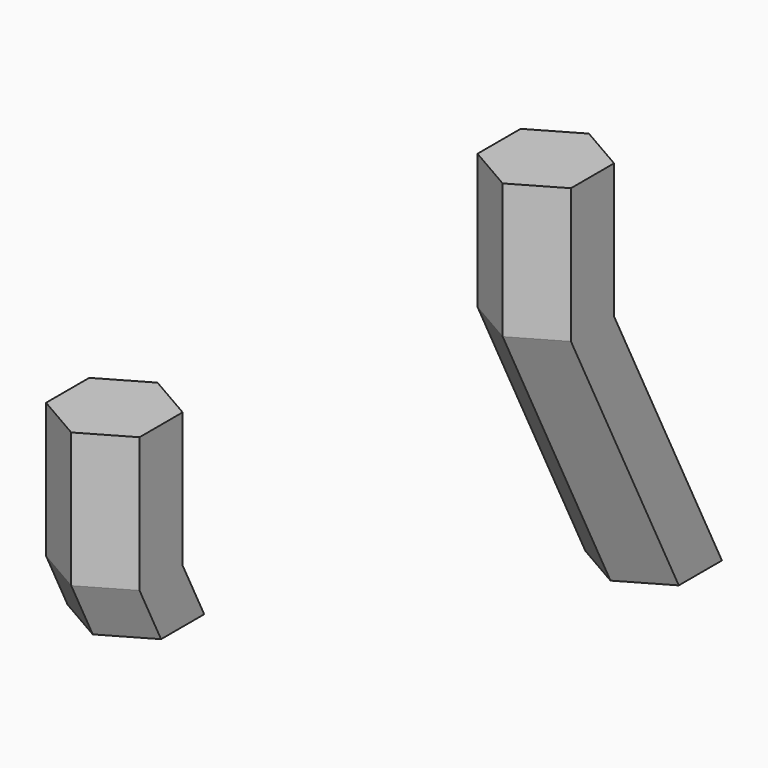
from build123d import *

# Parameters (mm, degrees)
F1_DEPTH = 6.35


with BuildPart() as f1:
    # F0 (on Top) → F1 (new body)
    with BuildSketch(Plane.XY):
        Polygon((10.5002954744, 12.7), (12.7, 12.7), (12.7, 10.16), (14.8997045256, 11.43), (14.8997045256, 13.97), (12.7, 15.24), (10.5002954744, 13.97), align=None)
        Polygon((12.7, 10.16), (12.7, 12.7), (10.5002954744, 12.7), (10.5002954744, 11.43), align=None)
    extrude(amount=-F1_DEPTH)

    # F6 (on offset) → F7 section 0
    with BuildSketch(Plane(origin=(0, 0, -19.05), x_dir=(1, 0, 0), z_dir=(0, 0, -1))):
        Polygon((14.8997045256, -17.78), (12.7, -16.51), (10.5002954744, -17.78), (10.5002954744, -20.32), (12.7, -21.59), (14.8997045256, -20.32), align=None)
    # F1_face (on face) → F7 section 1
    with BuildSketch(Plane(origin=(12.7, -12.7, -6.35), x_dir=(1, 0, 0), z_dir=(0, 0, -1))):
        Polygon((-2.1997045256, -24.13), (-2.1997045256, -26.67), (0, -27.94), (2.1997045256, -26.67), (2.1997045256, -24.13), (0, -22.86), align=None)
    loft()


with BuildPart() as f1b:
    # F0 (on Top) → F1, piece 2 (new body)
    with BuildSketch(Plane.XY):
        Polygon((12.7, -12.7), (12.7, -10.16), (10.5002954744, -11.43), (10.5002954744, -12.7), align=None)
        Polygon((14.8997045256, -11.43), (12.7, -10.16), (12.7, -12.7), (10.5002954744, -12.7), (10.5002954744, -13.97), (12.7, -15.24), (14.8997045256, -13.97), align=None)
    extrude(amount=-F1_DEPTH)

    # F3 (on offset) → F4 section 0
    with BuildSketch(Plane(origin=(0, 0, -8.89), x_dir=(1, 0, 0), z_dir=(0, 0, -1))):
        Polygon((10.5002954744, 10.16), (12.7, 8.89), (14.8997045256, 10.16), (14.8997045256, 12.7), (12.7, 13.97), (10.5002954744, 12.7), align=None)
    # F1_face (on face) → F4 section 1
    with BuildSketch(Plane(origin=(12.7, -12.7, -6.35), x_dir=(1, 0, 0), z_dir=(0, 0, -1))):
        Polygon((-2.1997045256, -1.27), (0, -2.54), (2.1997045256, -1.27), (2.1997045256, 1.27), (0, 2.54), (-2.1997045256, 1.27), align=None)
    loft()


solid = Compound([f1.part, f1b.part])
